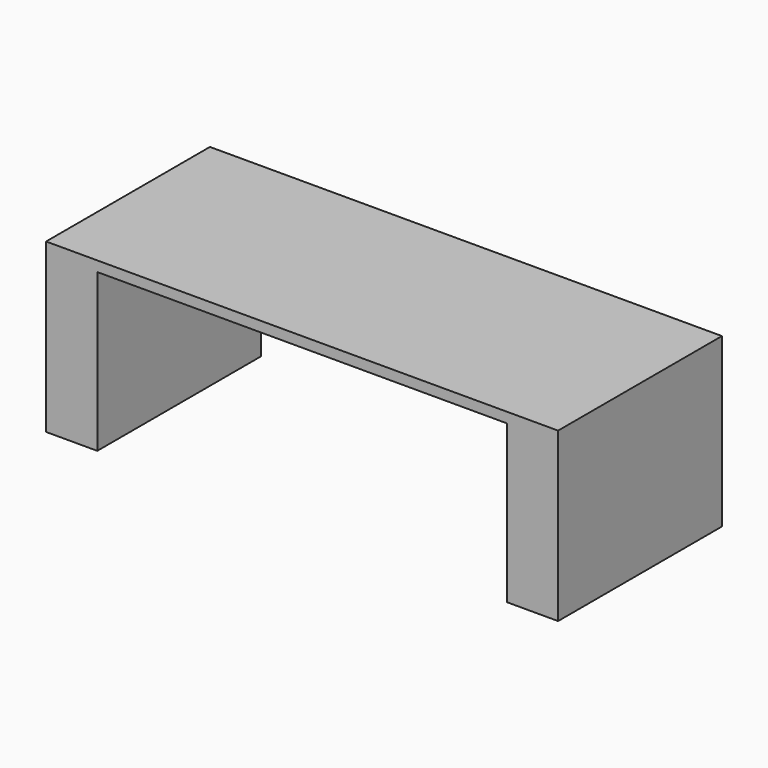
from build123d import *

# Parameters (mm, degrees)
F0_W     = 1270
F0_H     = 508
F1_DEPTH = 25.4
F2_W     = 127
F2_H     = 508
F3_DEPTH = 390.525


with BuildPart() as f1:
    # F0 (on Top) → F1 (new body)
    with BuildSketch(Plane.XY):
        Rectangle(F0_W, F0_H)
    extrude(amount=F1_DEPTH)

    # F2 (on face) → F3 (join)
    with BuildSketch(Plane(origin=(0, 0, 0), x_dir=(1, 0, 0), z_dir=(0, 0, -1))):
        with Locations((-571.5, 0)):
            Rectangle(F2_W, F2_H)
        with Locations((571.5, 0)):
            Rectangle(F2_W, F2_H)
    extrude(amount=F3_DEPTH)


solid = f1.part
